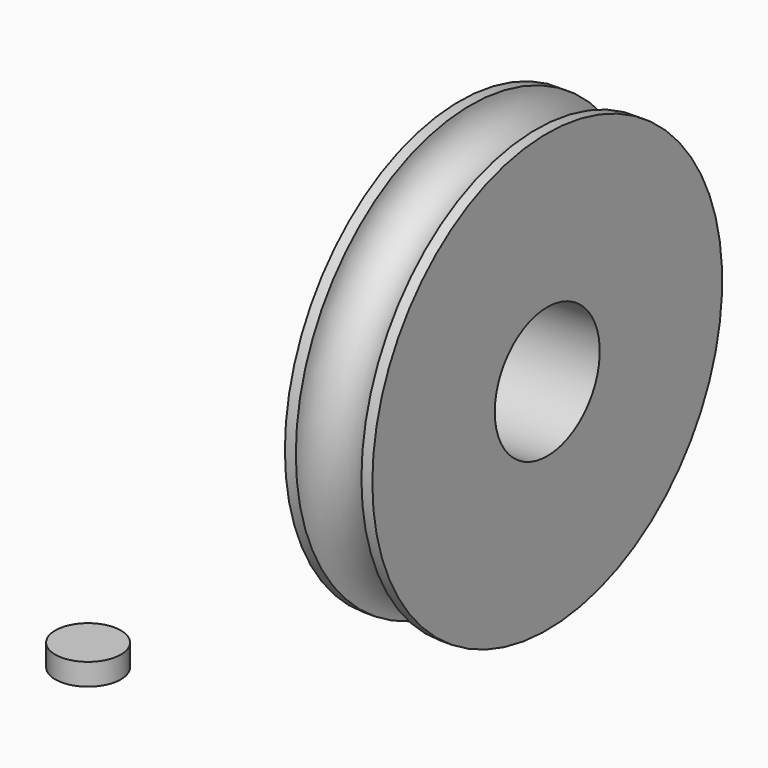
from build123d import *

# Parameters (mm, degrees)
CIRCLE002_R    = 1.5
RECTANGLE001_W = 2
RECTANGLE001_H = 7
RECTANGLE_W    = 2
RECTANGLE_H    = 7
CIRCLE005_R    = 1.5
EXTRUDE_DEPTH  = 1


with BuildPart() as revolve_body:
    # Circle002 → Revolve (revolve)
    with BuildSketch(Plane(origin=(0, 20, 0), x_dir=(1, 0, 0), z_dir=(0, 0, 1))):
        Circle(CIRCLE002_R)
    revolve(axis=Axis((0, 30, 0), (1, 0, 0)))


with BuildPart() as revolve002:
    # Rectangle001 → Revolve002 (revolve)
    with BuildSketch(Plane(origin=(0, 20, 0), x_dir=(1, 0, 0), z_dir=(0, 0, 1))):
        with Locations((1, 3.5)):
            Rectangle(RECTANGLE001_W, RECTANGLE001_H)
    revolve(axis=Axis((0, 30, 0), (1, 0, 0)))


with BuildPart() as cut:
    # Rectangle → Revolve001 (revolve)
    with BuildSketch(Plane(origin=(-2, 20, 0), x_dir=(1, 0, 0), z_dir=(0, 0, 1))):
        with Locations((1, 3.5)):
            Rectangle(RECTANGLE_W, RECTANGLE_H)
    revolve(axis=Axis((0, 30, 0), (1, 0, 0)))

    # Fusion: union Revolve002
    add(revolve002.part)

    # Cut: cut Revolve body
    add(revolve_body.part, mode=Mode.SUBTRACT)


with BuildPart() as extrude_body:
    # Circle005 → Extrude (new body)
    with BuildSketch(Plane(origin=(3, 2.5, 0), x_dir=(1, 0, 0), z_dir=(0, 0, 1))):
        Circle(CIRCLE005_R)
    extrude(amount=EXTRUDE_DEPTH)


solid = Compound([cut.part, extrude_body.part])
